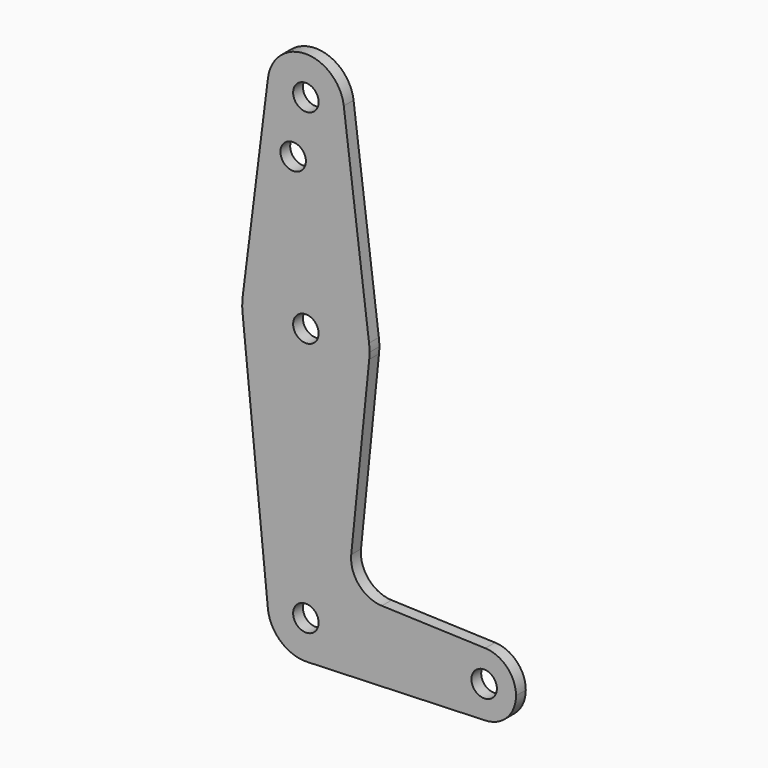
from build123d import *

# Parameters (mm, degrees)
F0_R     = 3.175
F1_DEPTH = 3.048


with BuildPart() as f1:
    # F0 (on Front) → F1 (new body)
    with BuildSketch(Plane.XZ):
        with BuildLine():
            ThreePointArc((0.340179, -9.518923), (6.854408, -6.613827), (9.525, 0))
            ThreePointArc((9.525, 0), (-0.476848, 9.513056), (-9.477255, -0.9525))
            ThreePointArc((-9.477255, -0.9525), (-6.262383, -7.17692), (0.340179, -9.518923))
        make_face()
        Circle(F0_R, mode=Mode.SUBTRACT)
        with BuildLine():
            ThreePointArc((-9.477255, -0.9525), (-0.476848, 9.513056), (9.525, 0))
            ThreePointArc((9.525, 0), (6.854408, -6.613827), (0.340179, -9.518923))
            Line((0.340179, -9.518923), (44.733482, -7.932436))
            ThreePointArc((44.733482, -7.932436), (36.5125, 0), (44.733482, 7.932436))
            Line((44.733482, 7.932436), (18.933378, 8.854457))
            ThreePointArc((18.933378, 8.854457), (13.224973, 11.574881), (11.307577, 17.600674))
            Line((11.307577, 17.600674), (15.794203, 61.90038))
            ThreePointArc((15.794203, 61.90038), (-0.006091, 47.625001), (-15.795426, 61.9125))
            Line((-15.795426, 61.9125), (-9.477255, -0.9525))
        make_face()
        with BuildLine():
            ThreePointArc((-15.750488, 65.484375), (-15.873744, 63.699705), (-15.795426, 61.9125))
            ThreePointArc((-15.795426, 61.9125), (-0.006091, 47.625001), (15.794203, 61.90038))
            ThreePointArc((15.794203, 61.90038), (15.854788, 62.699171), (15.875, 63.5))
            ThreePointArc((15.875, 63.5), (15.843841, 64.494139), (15.750488, 65.484375))
            ThreePointArc((15.750488, 65.484375), (0, 79.375), (-15.750488, 65.484375))
        make_face()
        with Locations((0, 63.5)):
            Circle(F0_R, mode=Mode.SUBTRACT)
        with BuildLine():
            ThreePointArc((44.733482, 7.932436), (36.5125, 0), (44.733482, -7.932436))
            ThreePointArc((44.733482, -7.932436), (50.162007, -5.511523), (52.3875, 0))
            ThreePointArc((52.3875, 0), (50.162007, 5.511523), (44.733482, 7.932436))
        make_face()
        with Locations((44.45, 0)):
            Circle(F0_R, mode=Mode.SUBTRACT)
        with BuildLine():
            Line((-9.450293, 115.490625), (-15.750488, 65.484375))
            ThreePointArc((-15.750488, 65.484375), (0, 79.375), (15.750488, 65.484375))
            Line((15.750488, 65.484375), (9.450293, 115.490625))
            ThreePointArc((9.450293, 115.490625), (9.506305, 114.896483), (9.525, 114.3))
            ThreePointArc((9.525, 114.3), (-0.596483, 104.793695), (-9.450293, 115.490625))
        make_face()
        with Locations((-3.175, 100.270145)):
            Circle(F0_R, mode=Mode.SUBTRACT)
        with BuildLine():
            ThreePointArc((9.450293, 115.490625), (0, 123.825), (-9.450293, 115.490625))
            ThreePointArc((-9.450293, 115.490625), (-0.596483, 104.793695), (9.525, 114.3))
            ThreePointArc((9.525, 114.3), (9.506305, 114.896483), (9.450293, 115.490625))
        make_face()
        with Locations((0, 114.3)):
            Circle(F0_R, mode=Mode.SUBTRACT)
    extrude(amount=F1_DEPTH)


solid = f1.part
